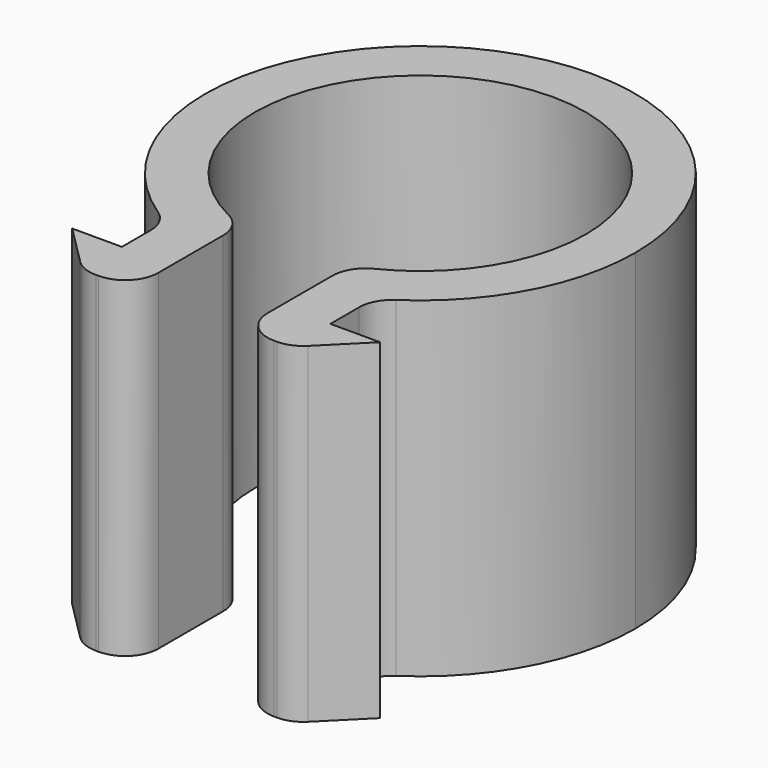
from build123d import *

# Parameters (mm, degrees)
F1_DEPTH = 10
F2_R     = 1


with BuildPart() as f1:
    # F0 (on Top) → F1 (new body)
    with BuildSketch(Plane.XY):
        with BuildLine():
            ThreePointArc((-41.8554165609, 24.0516047226), (-43.0993757866, 32.8488859903), (-35.2054165609, 28.7715093827))
            ThreePointArc((-35.2054165609, 28.7715093827), (-36.1280399533, 25.877550157), (-38.5554165609, 24.0516047226))
            Line((-38.5554165609, 24.0516047226), (-38.5554165609, 22.4844194358))
            ThreePointArc((-38.5554165609, 22.4844194358), (-37.7866546618, 22.738302037), (-37.0554165609, 23.0857816368))
            ThreePointArc((-37.0554165609, 23.0857816368), (-34.605193351, 25.4718881923), (-33.7054165609, 28.7715093827))
            ThreePointArc((-33.7054165609, 28.7715093827), (-43.5050377512, 34.3717325925), (-43.3554165609, 23.0857816368))
            ThreePointArc((-43.3554165609, 23.0857816368), (-42.6241784599, 22.738302037), (-41.8554165609, 22.4844194358))
            Line((-41.8554165609, 22.4844194358), (-41.8554165609, 24.0516047226))
        make_face()
        with BuildLine():
            ThreePointArc((-37.0554165609, 23.0857816368), (-37.7866546618, 22.738302037), (-38.5554165609, 22.4844194358))
            Line((-38.5554165609, 22.4844194358), (-38.5554165609, 19.9357816368))
            Line((-38.5554165609, 19.9357816368), (-37.0554165609, 19.9357816368))
            Line((-37.0554165609, 19.9357816368), (-37.0554165609, 21.4357816368))
            Line((-37.0554165609, 21.4357816368), (-37.0554165609, 23.0857816368))
        make_face()
        with BuildLine():
            Line((-41.8554165609, 19.9357816368), (-41.8554165609, 22.4844194358))
            ThreePointArc((-41.8554165609, 22.4844194358), (-42.6241784599, 22.738302037), (-43.3554165609, 23.0857816368))
            Line((-43.3554165609, 23.0857816368), (-43.3554165609, 21.4357816368))
            Line((-43.3554165609, 21.4357816368), (-43.3554165609, 19.9357816368))
            Line((-43.3554165609, 19.9357816368), (-41.8554165609, 19.9357816368))
        make_face()
        Polygon((-43.3554165609, 19.9357816368), (-43.3554165609, 21.4357816368), (-44.8554165609, 21.4357816368), align=None)
        Polygon((-35.5554165609, 21.4357816368), (-37.0554165609, 21.4357816368), (-37.0554165609, 19.9357816368), align=None)
    extrude(amount=F1_DEPTH)

    # F2
    f2_edges = [f1.edges().sort_by_distance(p)[0] for p in [
        (-43.355417, 19.935782, 5),
        (-37.055417, 19.935782, 5),
        (-41.855417, 19.935782, 5),
        (-41.855417, 24.051605, 5),
        (-37.055417, 23.085782, 5),
        (-43.355417, 23.085782, 5),
        (-38.555417, 24.051605, 5),
        (-38.555417, 19.935782, 5),
    ]]
    fillet(f2_edges, radius=F2_R)


solid = f1.part
